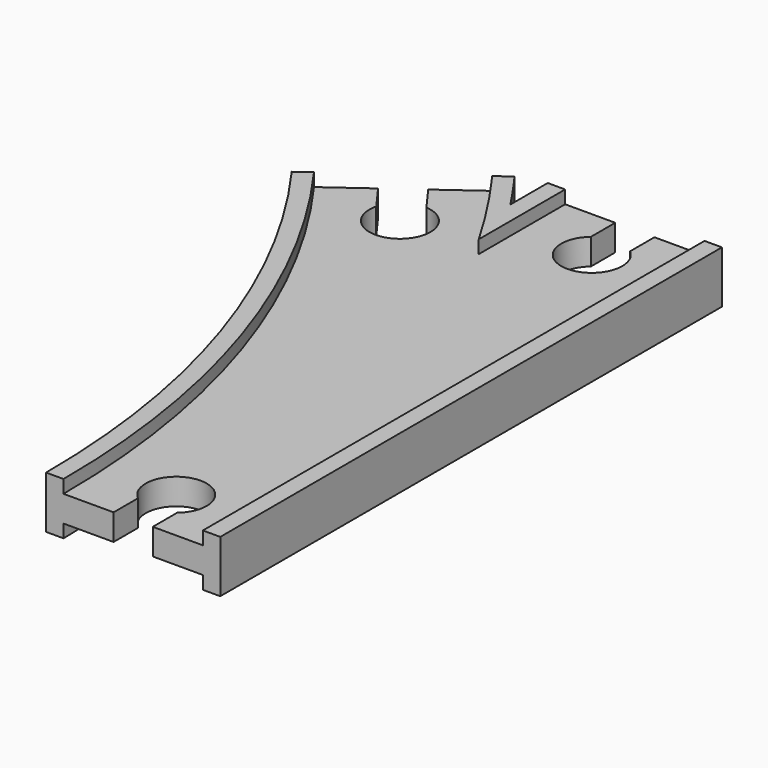
from build123d import *

# Parameters (mm, degrees)
SKETCH013_W          = 32
SKETCH013_H          = 3
POCKET_DEPTH         = 6.001
POCKET_DEPTH_BACK    = -6.001
POCKET001_DEPTH      = 6.001
POCKET001_DEPTH_BACK = -6.001
POCKET002_DEPTH      = 6.001
POCKET002_DEPTH_BACK = -6.001


with BuildPart() as part:
    # AdditivePipe: sweep along a path in Sketch002
    with BuildLine(Plane.XY) as additivepipe_path:
        ThreePointArc((0, 0), (-10.865453, 68.601773), (-42.398227, 130.488326))
    # Sketch → AdditivePipe (sweep)
    with BuildSketch(Plane.XZ):
        Polygon((-20, 6), (-20, -6), (-16, -6), (-16, -3), (-9, -3), (9, -3), (16, -3), (16, -6), (20, -6), (20, 6), (16, 6), (16, 3), (9, 3), (-9, 3), (-16, 3), (-16, 6), align=None)
    sweep(path=additivepipe_path.line)

    # AdditivePipe001: sweep along a path in Sketch001
    with BuildLine(Plane.XY) as additivepipe001_path:
        Line((0, 0), (0, 144))
    # Sketch → AdditivePipe001 (sweep)
    with BuildSketch(Plane.XZ):
        Polygon((-20, 6), (-20, -6), (-16, -6), (-16, -3), (-9, -3), (9, -3), (16, -3), (16, -6), (20, -6), (20, 6), (16, 6), (16, 3), (9, 3), (-9, 3), (-16, 3), (-16, 6), align=None)
    sweep(path=additivepipe001_path.line)

    # SubtractivePipe: sweep along a path in Sketch002
    with BuildLine(Plane.XY) as subtractivepipe_path:
        ThreePointArc((0, 0), (-10.865453, 68.601773), (-42.398227, 130.488326))
    # Sketch013 (on Face1 of AdditivePipe001) → SubtractivePipe (sweep, cut)
    with BuildSketch(Plane.XZ):
        with Locations((0, 4.5)):
            Rectangle(SKETCH013_W, SKETCH013_H)
    subtractivepipe = sweep(path=subtractivepipe_path.line, mode=Mode.SUBTRACT)

    # SubtractivePipe001: sweep along a path in Sketch001
    with BuildLine(Plane.XY) as subtractivepipe001_path:
        Line((0, 0), (0, 144))
    # Sketch013 (on Face1 of AdditivePipe001) → SubtractivePipe001 (sweep, cut)
    with BuildSketch(Plane.XZ):
        with Locations((0, 4.5)):
            Rectangle(SKETCH013_W, SKETCH013_H)
    subtractivepipe001 = sweep(path=subtractivepipe001_path.line, mode=Mode.SUBTRACT)

    # Mirrored: SubtractivePipe across XY
    add(subtractivepipe.mirror(Plane.XY), mode=Mode.SUBTRACT)

    # Mirrored001: SubtractivePipe001 across XY
    add(subtractivepipe001.mirror(Plane.XY), mode=Mode.SUBTRACT)

    # Sketch014 → Pocket (cut, two sides)
    with BuildSketch(Plane.XY) as pocket_sk:
        with BuildLine():
            Line((-4.5, 0), (4.5, 0))
            Line((4.5, 0), (4.5, 7))
            ThreePointArc((4.5, 7), (0, 19.361903), (-4.5, 7))
            Line((-4.5, 0), (-4.5, 7))
        make_face()
    extrude(amount=-POCKET_DEPTH, mode=Mode.SUBTRACT)
    extrude(pocket_sk.sketch, amount=-POCKET_DEPTH_BACK, mode=Mode.SUBTRACT)

    # Sketch015 → Pocket001 (cut, two sides)
    with BuildSketch(Plane.XY) as pocket001_sk:
        with BuildLine():
            Line((-46.038804, 127.843292), (-38.757651, 133.13336))
            Line((-38.757651, 133.13336), (-34.643154, 127.470241))
            ThreePointArc((-41.924307, 122.180173), (-31.017586, 114.824218), (-34.643154, 127.470241))
            Line((-46.038804, 127.843292), (-41.924307, 122.180173))
        make_face()
    extrude(amount=-POCKET001_DEPTH, mode=Mode.SUBTRACT)
    extrude(pocket001_sk.sketch, amount=-POCKET001_DEPTH_BACK, mode=Mode.SUBTRACT)

    # Sketch016 → Pocket002 (cut, two sides)
    with BuildSketch(Plane.XY) as pocket002_sk:
        with BuildLine():
            Line((-4.5, 144), (4.5, 144))
            Line((4.5, 144), (4.5, 137))
            ThreePointArc((-4.5, 137), (0, 124.638097), (4.5, 137))
            Line((-4.5, 144), (-4.5, 137))
        make_face()
    extrude(amount=-POCKET002_DEPTH, mode=Mode.SUBTRACT)
    extrude(pocket002_sk.sketch, amount=-POCKET002_DEPTH_BACK, mode=Mode.SUBTRACT)


solid = part.part
